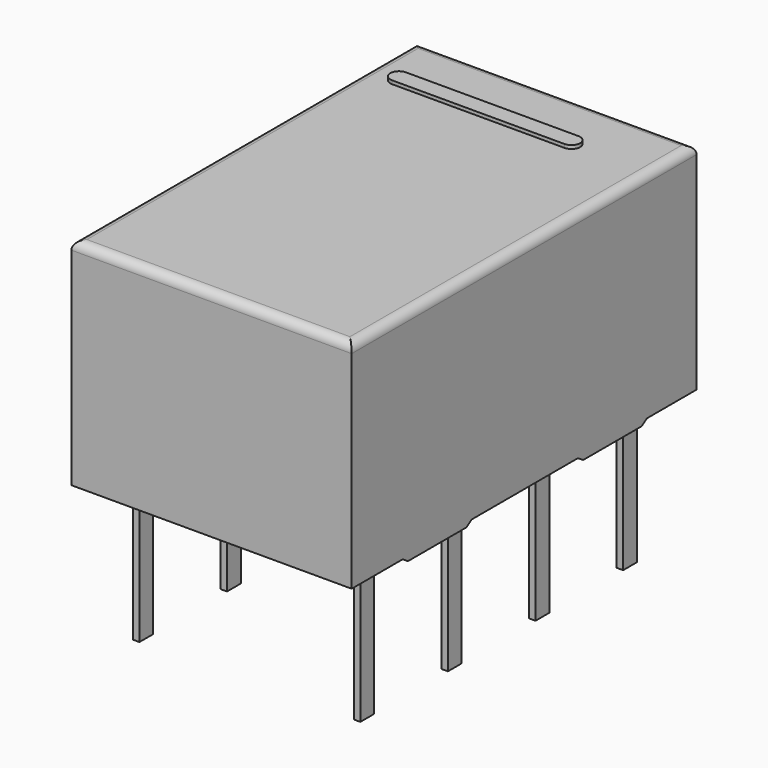
from build123d import *

# Parameters (mm, degrees)
PAD004_DEPTH = 0.3
SKETCH002_W  = 0.4
SKETCH002_H  = 0.15
PAD002_DEPTH = 3.5
PAD001_DEPTH = 0.18
PAD003_DEPTH = 0.3
SKETCH_W     = 10
SKETCH_H     = 6.5
PAD_DEPTH    = 5
POCKET_DEPTH = 0.5
FILLET_R     = 0.2


with BuildPart() as pad004:
    # Sketch006 → Pad004 (new body)
    with BuildSketch(Plane.YZ.offset(5.79)):
        Polygon((-7.33, 0.1), (-7.18, 0), (-5.48, 0), (-5.33, 0.1), align=None)
        Polygon((-2.25, 0.1), (-2.1, 0), (-0.4, 0), (-0.25, 0.1), align=None)
    extrude(amount=-PAD004_DEPTH)


with BuildPart() as pad002:
    # Sketch002 → Pad002 (new body)
    with BuildSketch(Plane(origin=(0, 0, 0.25), x_dir=(0, -1, 0), z_dir=(0, 0, 1))):
        Rectangle(SKETCH002_W, SKETCH002_H)
        with Locations((2.54, 0)):
            Rectangle(SKETCH002_W, SKETCH002_H)
        with Locations((5.08, 0)):
            Rectangle(SKETCH002_W, SKETCH002_H)
        with Locations((7.62, 0)):
            Rectangle(SKETCH002_W, SKETCH002_H)
        with Locations((-0.054201, 5.08)):
            Rectangle(SKETCH002_W, SKETCH002_H)
        with Locations((2.485799, 5.08)):
            Rectangle(SKETCH002_W, SKETCH002_H)
        with Locations((5.025799, 5.08)):
            Rectangle(SKETCH002_W, SKETCH002_H)
        with Locations((7.565799, 5.08)):
            Rectangle(SKETCH002_W, SKETCH002_H)
    extrude(amount=-PAD002_DEPTH)


with BuildPart() as pad001:
    # Sketch001 → Pad001 (new body)
    with BuildSketch(Plane(origin=(0, 0, 5), x_dir=(0, -1, 0), z_dir=(0, 0, 1))):
        with BuildLine():
            Line((0.4, 0), (0.4, 4))
            ThreePointArc((0.4, 4), (0.2, 4.2), (0, 4))
            Line((0, 4), (0, 0))
            ThreePointArc((0, 0), (0.2, -0.2), (0.4, 0))
        make_face()
    extrude(amount=PAD001_DEPTH)


with BuildPart() as pad003:
    # Sketch005 → Pad003 (new body)
    with BuildSketch(Plane(origin=(-0.71, 1, 0), x_dir=(0, 1, 0), z_dir=(1, 0, 0))):
        Polygon((-7.33, 0.1), (-7.18, 0), (-5.48, 0), (-5.33, 0.1), align=None)
        Polygon((-2.25, 0.1), (-2.1, 0), (-0.4, 0), (-0.25, 0.1), align=None)
    extrude(amount=PAD003_DEPTH)


with BuildPart() as obj1:
    # Sketch → Pad (new body)
    with BuildSketch(Plane(origin=(0, 0, 0.1), x_dir=(0, -1, 0), z_dir=(0, 0, 1))):
        with Locations((3.81, 2.54)):
            Rectangle(SKETCH_W, SKETCH_H)
    extrude(amount=PAD_DEPTH)

    # Sketch003 → Pocket (cut)
    with BuildSketch(Plane(origin=(0, 0, 5.1), x_dir=(0, -1, 0), z_dir=(0, 0, 1))):
        with BuildLine():
            ThreePointArc((-0.318267, 7.6), (0.223846, 7.813173), (0.45, 8.35))
            Line((0.45, 8.35), (-2.05, 8.35))
            Line((-2.05, 8.35), (-2.05, 7.6))
            Line((-2.05, 7.6), (-0.318267, 7.6))
        make_face()
        with BuildLine():
            Line((9.6, -0.75), (12.1, -0.75))
            Line((12.1, -0.75), (12.1, 0))
            Line((10.285847, 0), (12.1, 0))
            ThreePointArc((10.285847, 0), (9.797313, -0.241845), (9.6, -0.75))
        make_face()
    extrude(amount=-POCKET_DEPTH, mode=Mode.SUBTRACT)

    # Fillet
    fillet_edges = [obj1.edges().sort_by_distance(p)[0] for p in [
        (-0.71, -3.81, 5.1),
        (2.54, -8.81, 5.1),
        (5.79, -3.81, 5.1),
        (2.54, 1.19, 5.1),
    ]]
    fillet(fillet_edges, radius=FILLET_R)

    add(pad004.part)
    add(pad002.part)
    add(pad001.part)
    add(pad003.part)


solid = obj1.part
